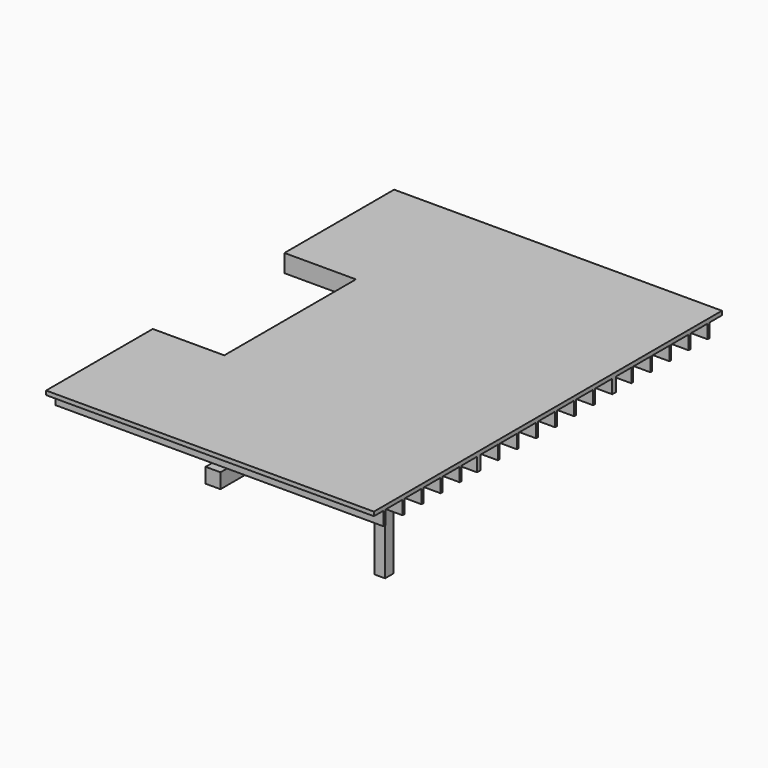
from build123d import *

# Parameters (mm, degrees)
F0_W      = 5867.4
F0_H      = 7696.2
F1_DEPTH  = 69.135625
F2_W      = 5867.4
F2_H      = 7696.2
F2_W_2    = 5791.2
F2_H_2    = 7620
F3_DEPTH  = 234.95
F4_W      = 38.1
F4_H      = 234.95
F5_DEPTH  = 5863.2060388453
F7_W      = 254
F7_H      = 254
F8_DEPTH  = 7289.8
F9_W      = 184.15
F9_H      = 184.15
F10_DEPTH = 2794
F12_DEPTH = 184.15
F13_W     = 5867.4
F13_H     = 7696.2
F13_W_2   = 5590.8448
F13_H_2   = 7419.6448
F14_DEPTH = 304.085625
F15_W     = 1219.2
F15_H     = 2806.7
F16_DEPTH = 304.8
F17_W     = 368.3
F17_H     = 234.95
F18_DEPTH = 38.1
F19_DEPTH = 38.1
F20_DEPTH = 38.1
F21_SCALE = 0.0114810563


with BuildPart() as f1:
    # F0 (on Top) → F1 (new body)
    with BuildSketch(Plane.XY):
        with Locations((2929.5060388453, -3848.1)):
            Rectangle(F0_W, F0_H)
    extrude(amount=F1_DEPTH)

    # F2 (on face) → F3 (join)
    with BuildSketch(Plane(origin=(0, 0, 0), x_dir=(1, 0, 0), z_dir=(0, 0, -1))):
        with Locations((2929.5060388453, 3848.1)):
            Rectangle(F2_W, F2_H)
        with Locations((2929.5060388453, 3848.1)):
            Rectangle(F2_W_2, F2_H_2, mode=Mode.SUBTRACT)
    extrude(amount=F3_DEPTH)

    # F4 (on Right) → F5 (join, through all)
    with BuildSketch(Plane.YZ):
        with Locations((-425.45, -117.475)):
            Rectangle(F4_W, F4_H)
        with Locations((-831.85, -117.475)):
            Rectangle(F4_W, F4_H)
        with Locations((-1238.25, -117.475)):
            Rectangle(F4_W, F4_H)
        with Locations((-1644.65, -117.475)):
            Rectangle(F4_W, F4_H)
        with Locations((-2051.05, -117.475)):
            Rectangle(F4_W, F4_H)
        with Locations((-2457.45, -117.475)):
            Rectangle(F4_W, F4_H)
        with Locations((-2863.85, -117.475)):
            Rectangle(F4_W, F4_H)
        with Locations((-3270.25, -117.475)):
            Rectangle(F4_W, F4_H)
        with Locations((-3676.65, -117.475)):
            Rectangle(F4_W, F4_H)
        with Locations((-4083.05, -117.475)):
            Rectangle(F4_W, F4_H)
        with Locations((-4489.45, -117.475)):
            Rectangle(F4_W, F4_H)
        with Locations((-4895.85, -117.475)):
            Rectangle(F4_W, F4_H)
        with Locations((-5302.25, -117.475)):
            Rectangle(F4_W, F4_H)
        with Locations((-5708.65, -117.475)):
            Rectangle(F4_W, F4_H)
        with Locations((-6115.05, -117.475)):
            Rectangle(F4_W, F4_H)
        with Locations((-6521.45, -117.475)):
            Rectangle(F4_W, F4_H)
        with Locations((-6927.85, -117.475)):
            Rectangle(F4_W, F4_H)
        with Locations((-7334.25, -117.475)):
            Rectangle(F4_W, F4_H)
    extrude(amount=F5_DEPTH)

    # F7 (on offset) → F8 (join)
    with BuildSketch(Plane(origin=(0, -203.2, 0), x_dir=(-1, 0, 0), z_dir=(0, 1, 0))):
        with Locations((-2929.5060388453, -361.95)):
            Rectangle(F7_W, F7_H)
    extrude(amount=-F8_DEPTH)

    # F9 (on face) → F10 (join)
    with BuildSketch(Plane(origin=(0, 0, -488.95), x_dir=(1, 0, 0), z_dir=(0, 0, -1))):
        with Locations((2929.5060388453, 3848.1)):
            Rectangle(F9_W, F9_H)
    extrude(amount=F10_DEPTH)

    # F11 (on face) → F12 (join, through all)
    with BuildSketch(Plane.YZ.offset(3021.5810388453)):
        Polygon((-3940.175, -838.122572489), (-4289.347572489, -488.95), (-4549.775, -488.95), (-3940.175, -1098.55), align=None)
        Polygon((-3406.852427511, -488.95), (-3756.025, -838.122572489), (-3756.025, -1098.55), (-3146.425, -488.95), align=None)
    extrude(amount=-F12_DEPTH)

    # F13 (on face) → F14 (cut, through all)
    with BuildSketch(Plane.XY.offset(69.135625)):
        with Locations((2929.5060388453, -3848.1)):
            Rectangle(F13_W, F13_H)
        with Locations((2929.5060388453, -3848.1)):
            Rectangle(F13_W_2, F13_H_2, mode=Mode.SUBTRACT)
    extrude(amount=-F14_DEPTH, mode=Mode.SUBTRACT)

    # F15 (on face) → F16 (cut)
    with BuildSketch(Plane.XY.offset(69.135625)):
        with Locations((743.6836388453, -3879.85)):
            Rectangle(F15_W, F15_H)
    extrude(amount=-F16_DEPTH, mode=Mode.SUBTRACT)

    # F17 (on face) → F18 (join)
    with BuildSketch(Plane(origin=(1353.2836388453, 0, 0), x_dir=(0, -1, 0), z_dir=(-1, 0, 0))):
        with Locations((2660.65, -117.475)):
            Rectangle(F17_W, F17_H)
        with Locations((3067.05, -117.475)):
            Rectangle(F17_W, F17_H)
        with Locations((3473.45, -117.475)):
            Rectangle(F17_W, F17_H)
        with Locations((3879.85, -117.475)):
            Rectangle(F17_W, F17_H)
        with Locations((4286.25, -117.475)):
            Rectangle(F17_W, F17_H)
        with Locations((4692.65, -117.475)):
            Rectangle(F17_W, F17_H)
        with Locations((5099.05, -117.475)):
            Rectangle(F17_W, F17_H)
    extrude(amount=-F18_DEPTH)

    # F19 (add): a face of the model
    f19_faces = [f1.faces().sort_by_distance(p)[0] for p in [
        (2929.5060388453, -5321.3, -117.475),
    ]]
    extrude(f19_faces, amount=F19_DEPTH)

    # F20 (add): a face of the model
    f20_faces = [f1.faces().sort_by_distance(p)[0] for p in [
        (2929.5060388453, -2438.4, -117.475),
    ]]
    extrude(f20_faces, amount=F20_DEPTH)


with BuildPart() as f1_1:
    # F21: moved
    add(f1.part.scale(F21_SCALE))


solid = f1_1.part
